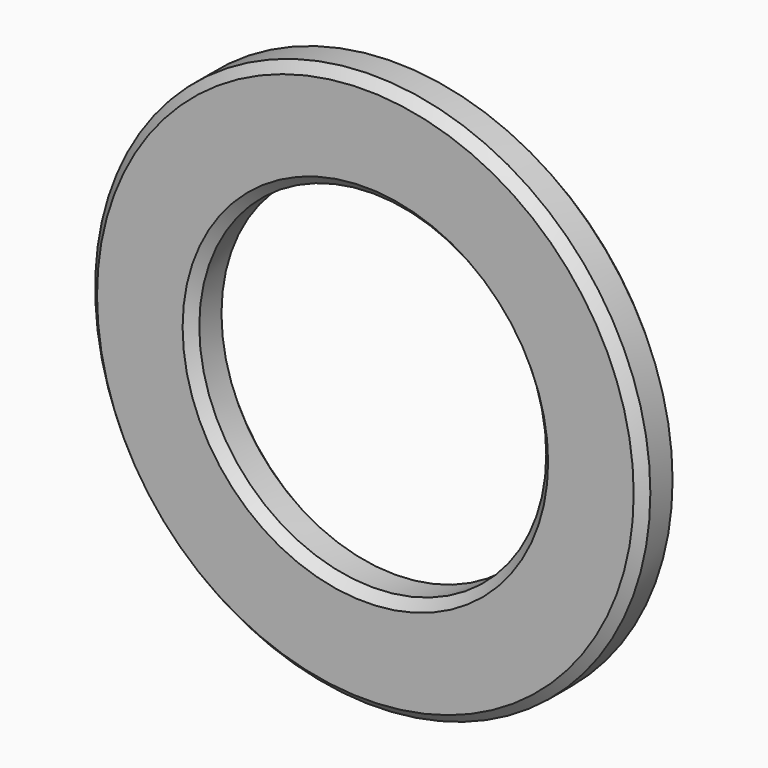
from build123d import *

# Parameters (mm, degrees)
F0_R     = 38.1
F0_R_2   = 23.8125
F1_DEPTH = 3.175
F2_SIZE  = 1.27


with BuildPart() as f1:
    # F0 (on Front) → F1 (new body, symmetric)
    with BuildSketch(Plane.XZ):
        Circle(F0_R)
        Circle(F0_R_2, mode=Mode.SUBTRACT)
    extrude(amount=F1_DEPTH, both=True)

    # F2
    f2_edges = [f1.edges().sort_by_distance(p)[0] for p in [
        (-38.1, 3.175, 0),
        (38.1, 0, 0),
        (-38.1, -3.175, 0),
        (-23.8125, -3.175, 0),
        (23.8125, 0, 0),
        (-23.8125, 3.175, 0),
    ]]
    chamfer(f2_edges, length=F2_SIZE)


solid = f1.part
